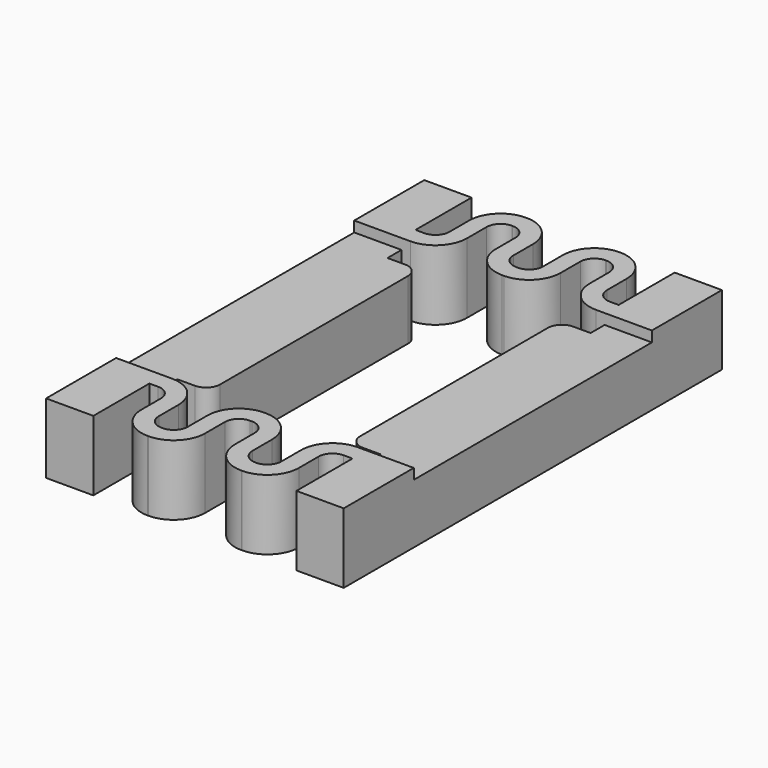
from build123d import *

# Parameters (mm, degrees)
F1_DEPTH = 4
F3_W     = 17
F3_H     = 17
F4_DEPTH = 0.6


with BuildPart() as f1:
    # F0 (on Top) → F1 (new body)
    with BuildSketch(Plane.XY):
        with BuildLine():
            Line((-8.5, 0), (-4, 0))
            Line((-4, 0), (-4, 6.7))
            ThreePointArc((-4, 6.7), (-4.234315, 7.265685), (-4.8, 7.5))
            Line((-4.8, 7.5), (-5.8, 7.5))
            Line((-5.8, 7.5), (-5.8, 8.5))
            Line((-5.8, 8.5), (-5.3, 8.5))
            ThreePointArc((-5.3, 8.5), (-4.027208, 9.027208), (-3.5, 10.3))
            Line((-3.5, 10.3), (-3.5, 11.7))
            ThreePointArc((-3.5, 11.7), (-3.265685, 12.265685), (-2.7, 12.5))
            Line((-2.7, 12.5), (-2.65, 12.5))
            ThreePointArc((-2.65, 12.5), (-2.084315, 12.265685), (-1.85, 11.7))
            Line((-1.85, 11.7), (-1.85, 10.3))
            ThreePointArc((-1.85, 10.3), (-1.322792, 9.027208), (-0.05, 8.5))
            Line((-0.05, 8.5), (0.05, 8.5))
            ThreePointArc((0.05, 8.5), (1.322792, 9.027208), (1.85, 10.3))
            Line((1.85, 10.3), (1.85, 11.7))
            ThreePointArc((1.85, 11.7), (2.084315, 12.265685), (2.65, 12.5))
            Line((2.65, 12.5), (2.7, 12.5))
            ThreePointArc((2.7, 12.5), (3.265685, 12.265685), (3.5, 11.7))
            Line((3.5, 11.7), (3.5, 10.3))
            ThreePointArc((3.5, 10.3), (4.027208, 9.027208), (5.3, 8.5))
            Line((5.3, 8.5), (5.8, 8.5))
            Line((5.8, 8.5), (5.8, 7.5))
            Line((5.8, 7.5), (4.8, 7.5))
            ThreePointArc((4.8, 7.5), (4.234315, 7.265685), (4, 6.7))
            Line((4, 6.7), (4, 0))
            Line((4, 0), (8.5, 0))
            Line((8.5, 0), (8.5, 13.5))
            Line((8.5, 13.5), (5.8, 13.5))
            Line((5.8, 13.5), (5.8, 9.5))
            Line((5.8, 9.5), (5.3, 9.5))
            ThreePointArc((5.3, 9.5), (4.734315, 9.734315), (4.5, 10.3))
            Line((4.5, 10.3), (4.5, 11.7))
            ThreePointArc((4.5, 11.7), (3.972792, 12.972792), (2.7, 13.5))
            Line((2.7, 13.5), (2.65, 13.5))
            ThreePointArc((2.65, 13.5), (1.377208, 12.972792), (0.85, 11.7))
            Line((0.85, 11.7), (0.85, 10.3))
            ThreePointArc((0.85, 10.3), (0.615685, 9.734315), (0.05, 9.5))
            Line((0.05, 9.5), (-0.05, 9.5))
            ThreePointArc((-0.05, 9.5), (-0.615685, 9.734315), (-0.85, 10.3))
            Line((-0.85, 10.3), (-0.85, 11.7))
            ThreePointArc((-0.85, 11.7), (-1.377208, 12.972792), (-2.65, 13.5))
            Line((-2.65, 13.5), (-2.7, 13.5))
            ThreePointArc((-2.7, 13.5), (-3.972792, 12.972792), (-4.5, 11.7))
            Line((-4.5, 11.7), (-4.5, 10.3))
            ThreePointArc((-4.5, 10.3), (-4.734315, 9.734315), (-5.3, 9.5))
            Line((-5.3, 9.5), (-5.8, 9.5))
            Line((-5.8, 9.5), (-5.8, 13.5))
            Line((-5.8, 13.5), (-8.5, 13.5))
            Line((-8.5, 13.5), (-8.5, 0))
        make_face()
    extrude(amount=F1_DEPTH)

    # F2: F1 across plane


with BuildPart() as f1_1:
    add(f1.part)
    add(f1.part.mirror(Plane.XZ))

    # F3 (on face) → F4 (cut)
    with BuildSketch(Plane.XY.offset(4)):
        Rectangle(F3_W, F3_H)
    extrude(amount=-F4_DEPTH, mode=Mode.SUBTRACT)


solid = f1_1.part
